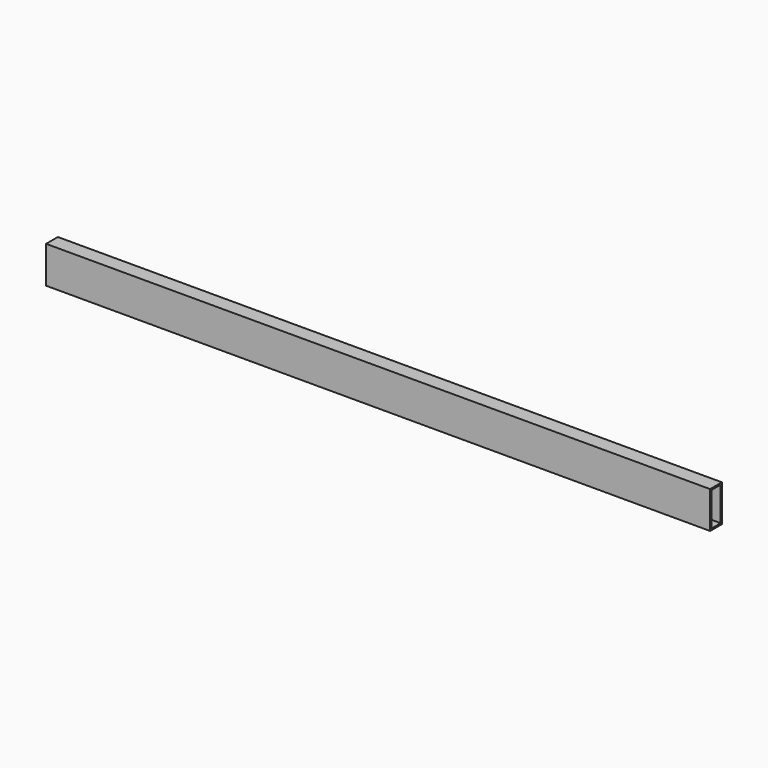
from build123d import *

# Parameters (mm, degrees)
F0_W     = 20
F0_H     = 50
F1_DEPTH = 450
F2_W     = 16
F2_H     = 46
F3_DEPTH = 900.001


with BuildPart() as f1:
    # F0 (on Right) → F1 (new body, symmetric)
    with BuildSketch(Plane.YZ):
        Rectangle(F0_W, F0_H)
    extrude(amount=F1_DEPTH, both=True)

    # F2 (on face) → F3 (cut, through all)
    with BuildSketch(Plane(origin=(-450, 0, 0), x_dir=(0, -1, 0), z_dir=(-1, 0, 0))):
        Rectangle(F2_W, F2_H)
    extrude(amount=-F3_DEPTH, mode=Mode.SUBTRACT)


solid = f1.part
